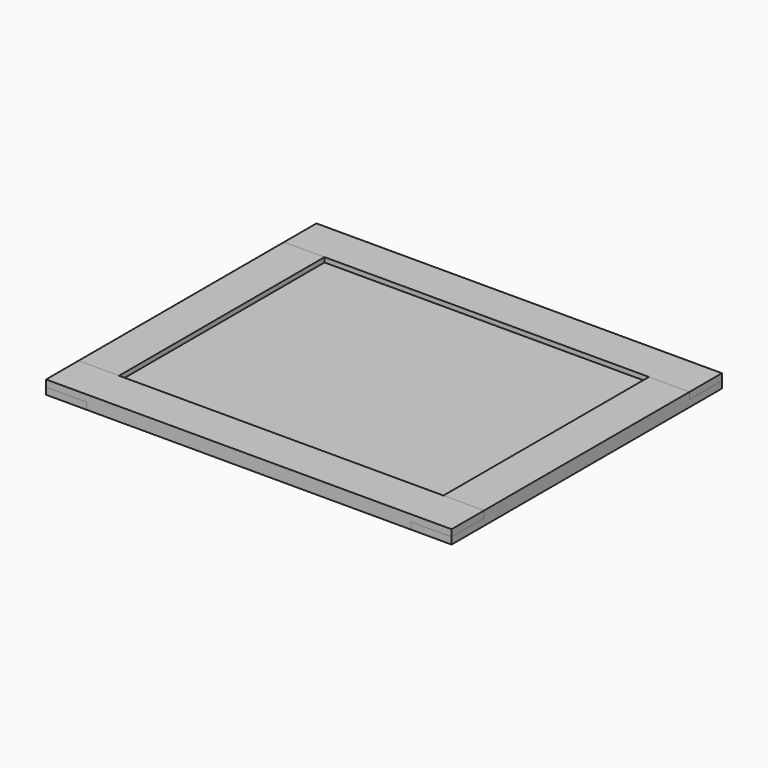
from build123d import *

# Parameters (mm, degrees)
BOX004_W         = 500
BOX004_H         = 400
BOX004_DEPTH     = 3
BOX005_W         = 500
BOX005_H         = 400
BOX005_DEPTH     = 3
BOX006_W         = 60
BOX006_H         = 60
BOX006_DEPTH     = 10
ARRAY_X_COUNT    = 2
ARRAY_X_PITCH    = 540
ARRAY_Y_COUNT    = 2
ARRAY_Y_PITCH    = 440
BOX003_W         = 600
BOX003_H         = 60
BOX003_DEPTH     = 20
BOX002_W         = 600
BOX002_H         = 60
BOX002_DEPTH     = 20
BOX007_W         = 60
BOX007_H         = 60
BOX007_DEPTH     = 10
ARRAY001_X_COUNT = 2
ARRAY001_X_PITCH = 540
ARRAY001_Y_COUNT = 2
ARRAY001_Y_PITCH = 440
BOX001_W         = 60
BOX001_H         = 500
BOX001_DEPTH     = 20
BOX_W            = 60
BOX_H            = 500
BOX_DEPTH        = 20


with BuildPart() as back_picture_store_here:
    # Box004 → Box004 (new body)
    with BuildSketch(Plane(origin=(50, 50, 7), x_dir=(1, 0, 0), z_dir=(0, 0, 1))):
        with Locations((250, 200)):
            Rectangle(BOX004_W, BOX004_H)
    extrude(amount=BOX004_DEPTH)


with BuildPart() as glass:
    # Box005 → Box005 (new body)
    with BuildSketch(Plane(origin=(50, 50, 10), x_dir=(1, 0, 0), z_dir=(0, 0, 1))):
        with Locations((250, 200)):
            Rectangle(BOX005_W, BOX005_H)
    extrude(amount=BOX005_DEPTH)


with BuildPart() as array_joints_top_bottom:
    # Box006 → Box006 (new body)
    with BuildSketch(Plane.XY):
        with Locations((30, 30)):
            Rectangle(BOX006_W, BOX006_H)
    extrude(amount=BOX006_DEPTH)

    # Array X: Array, Joints, Top, Bottom ×2


with BuildPart() as array_joints_top_bottom_1:
    add(array_joints_top_bottom.part)
    with Locations(*[(i * ARRAY_X_PITCH, 0, 0) for i in range(1, ARRAY_X_COUNT)]):
        add(array_joints_top_bottom.part)

    # Array Y: Array, Joints, Top, Bottom ×2


with BuildPart() as array_joints_top_bottom_2:
    add(array_joints_top_bottom_1.part)
    with Locations(*[(0, i * ARRAY_Y_PITCH, 0) for i in range(1, ARRAY_Y_COUNT)]):
        add(array_joints_top_bottom_1.part)


with BuildPart() as frame_bottom:
    # Box003 → Box003 (new body)
    with BuildSketch(Plane.XY):
        with Locations((300, 30)):
            Rectangle(BOX003_W, BOX003_H)
    extrude(amount=BOX003_DEPTH)


with BuildPart() as cut_top_bottom:
    # Box002 → Box002 (new body)
    with BuildSketch(Plane(origin=(0, 440, 0), x_dir=(1, 0, 0), z_dir=(0, 0, 1))):
        with Locations((300, 30)):
            Rectangle(BOX002_W, BOX002_H)
    extrude(amount=BOX002_DEPTH)

    # Fusion: union Frame bottom
    add(frame_bottom.part)

    # Cut: cut Array, Joints, Top, Bottom
    add(array_joints_top_bottom_2.part, mode=Mode.SUBTRACT)


with BuildPart() as array_joints_left_right:
    # Box007 → Box007 (new body)
    with BuildSketch(Plane.XY.offset(10)):
        with Locations((30, 30)):
            Rectangle(BOX007_W, BOX007_H)
    extrude(amount=BOX007_DEPTH)

    # Array001 X: Array, Joints, Left, Right ×2


with BuildPart() as array_joints_left_right_1:
    add(array_joints_left_right.part)
    with Locations(*[(i * ARRAY001_X_PITCH, 0, 0) for i in range(1, ARRAY001_X_COUNT)]):
        add(array_joints_left_right.part)

    # Array001 Y: Array, Joints, Left, Right ×2


with BuildPart() as array_joints_left_right_2:
    add(array_joints_left_right_1.part)
    with Locations(*[(0, i * ARRAY001_Y_PITCH, 0) for i in range(1, ARRAY001_Y_COUNT)]):
        add(array_joints_left_right_1.part)


with BuildPart() as frame_right:
    # Box001 → Box001 (new body)
    with BuildSketch(Plane(origin=(540, 0, 0), x_dir=(1, 0, 0), z_dir=(0, 0, 1))):
        with Locations((30, 250)):
            Rectangle(BOX001_W, BOX001_H)
    extrude(amount=BOX001_DEPTH)


with BuildPart() as cut_left_right:
    # Box → Box (new body)
    with BuildSketch(Plane.XY):
        with Locations((30, 250)):
            Rectangle(BOX_W, BOX_H)
    extrude(amount=BOX_DEPTH)

    # Fusion001: union Frame right
    add(frame_right.part)

    # Cut001: cut Array, Joints, Left, Right
    add(array_joints_left_right_2.part, mode=Mode.SUBTRACT)


solid = Compound([back_picture_store_here.part, glass.part, cut_top_bottom.part, cut_left_right.part])
